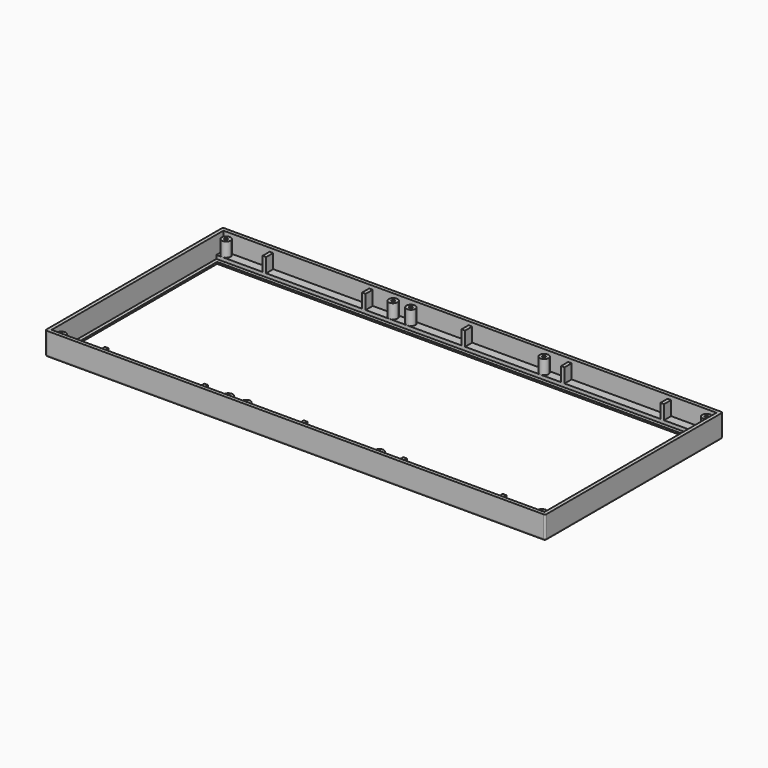
from build123d import *

# Parameters (mm, degrees)
SKETCH012_W     = 281.5
SKETCH012_H     = 125
PAD006_DEPTH    = 13
SKETCH013_W     = 277.5
SKETCH013_H     = 111
POCKET003_DEPTH = 12
SKETCH014_W     = 273.5
SKETCH014_H     = 107
POCKET004_DEPTH = 1.001
SKETCH015_W     = 277.5
SKETCH015_H     = 121
POCKET005_DEPTH = 10
SKETCH016_R     = 2.5
SKETCH016_W     = 2
SKETCH016_H     = 5
PAD_DEPTH       = 8
SKETCH_R        = 0.9
POCKET_DEPTH    = 8
FILLET_R        = 1


with BuildPart() as part:
    # Sketch012 → Pad006 (new body)
    with BuildSketch(Plane.XY):
        Rectangle(SKETCH012_W, SKETCH012_H)
    extrude(amount=PAD006_DEPTH)

    # Sketch013 (on Face6 of Pad006) → Pocket003 (cut)
    with BuildSketch(Plane.XY.offset(13)):
        Rectangle(SKETCH013_W, SKETCH013_H)
    extrude(amount=-POCKET003_DEPTH, mode=Mode.SUBTRACT)

    # Sketch014 (on Face11 of Pocket003) → Pocket004 (cut, through all)
    with BuildSketch(Plane.XY.offset(1)):
        Rectangle(SKETCH014_W, SKETCH014_H)
    extrude(amount=-POCKET004_DEPTH, mode=Mode.SUBTRACT)

    # Sketch015 (on Face5 of Pocket004) → Pocket005 (cut)
    with BuildSketch(Plane.XY.offset(13)):
        Rectangle(SKETCH015_W, SKETCH015_H)
    extrude(amount=-POCKET005_DEPTH, mode=Mode.SUBTRACT)

    # Sketch016 (on Face14 of Pocket005) → Pad (join)
    with BuildSketch(Plane.XY.offset(3)):
        with Locations((-135.25, 58)):
            Circle(SKETCH016_R)
        with Locations((-135.25, -58)):
            Circle(SKETCH016_R)
        with Locations((-41.25, 58)):
            Circle(SKETCH016_R)
        with Locations((43.75, 58)):
            Circle(SKETCH016_R)
        with Locations((-41.25, -58)):
            Circle(SKETCH016_R)
        with Locations((43.75, -58)):
            Circle(SKETCH016_R)
        with Locations((135.25, 58)):
            Circle(SKETCH016_R)
        with Locations((135.25, -58)):
            Circle(SKETCH016_R)
        with Locations((-31.25, 58)):
            Circle(SKETCH016_R)
        with Locations((-31.25, -58)):
            Circle(SKETCH016_R)
        with Locations((-111.75, 58)):
            Rectangle(SKETCH016_W, SKETCH016_H)
        with Locations((-55.75, 58)):
            Rectangle(SKETCH016_W, SKETCH016_H)
        with Locations((0.25, 58)):
            Rectangle(SKETCH016_W, SKETCH016_H)
        with Locations((56.25, 58)):
            Rectangle(SKETCH016_W, SKETCH016_H)
        with Locations((112.25, 58)):
            Rectangle(SKETCH016_W, SKETCH016_H)
        with Locations((-111.75, -58)):
            Rectangle(SKETCH016_W, SKETCH016_H)
        with Locations((-55.75, -58)):
            Rectangle(SKETCH016_W, SKETCH016_H)
        with Locations((0.25, -58)):
            Rectangle(SKETCH016_W, SKETCH016_H)
        with Locations((56.25, -58)):
            Rectangle(SKETCH016_W, SKETCH016_H)
        with Locations((112.25, -58)):
            Rectangle(SKETCH016_W, SKETCH016_H)
    extrude(amount=PAD_DEPTH)

    # Sketch (on Face9 of Pad) → Pocket (cut)
    with BuildSketch(Plane.XY.offset(11)):
        with Locations((-135.25, 58)):
            Circle(SKETCH_R)
        with Locations((-41.25, 58)):
            Circle(SKETCH_R)
        with Locations((-31.25, 58)):
            Circle(SKETCH_R)
        with Locations((43.75, 58)):
            Circle(SKETCH_R)
        with Locations((135.25, 58)):
            Circle(SKETCH_R)
        with Locations((135.25, -58)):
            Circle(SKETCH_R)
        with Locations((43.75, -58)):
            Circle(SKETCH_R)
        with Locations((-31.25, -58)):
            Circle(SKETCH_R)
        with Locations((-41.25, -58)):
            Circle(SKETCH_R)
        with Locations((-135.25, -58)):
            Circle(SKETCH_R)
    extrude(amount=-POCKET_DEPTH, mode=Mode.SUBTRACT)

    # Fillet
    fillet_edges = [part.edges().sort_by_distance(p)[0] for p in [
        (-140.75, 0, 0),
        (-140.75, 62.5, 6.5),
        (0, 62.5, 0),
        (-140.75, -62.5, 6.5),
        (0, -62.5, 0),
        (140.75, -62.5, 6.5),
        (140.75, 0, 0),
        (140.75, 62.5, 6.5),
    ]]
    fillet(fillet_edges, radius=FILLET_R)


solid = part.part
